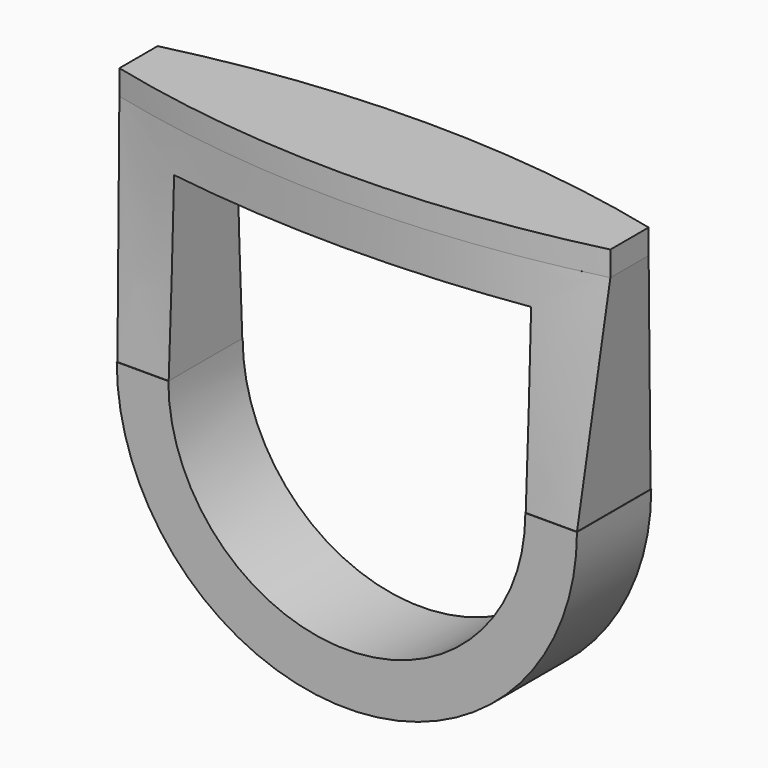
from build123d import *

# Parameters (mm, degrees)
F1_DEPTH      = 2.25
F1_DEPTH_BACK = 2.25
F3_START      = 10.65
F3_DEPTH      = 1.2
F4_W          = 22.2676340491
F4_H          = 4.4576479122
F6_DEPTH      = 25
F6_DEPTH_BACK = 25


with BuildPart() as f1:
    # F0 (on Front) → F1 (new body, two sides)
    with BuildSketch(Plane.XZ) as f1_sk:
        with BuildLine():
            Line((11.15, 0), (8.65, 0))
            ThreePointArc((8.65, 0), (0, -8.65), (-8.65, 0))
            Line((-8.65, 0), (-11.15, 0))
            ThreePointArc((-11.15, 0), (0, -11.15), (11.15, 0))
        make_face()
    extrude(amount=F1_DEPTH)
    extrude(f1_sk.sketch, amount=-F1_DEPTH_BACK)


with BuildPart() as f3:
    # F2 (on Top) → F3 (new body)
    with BuildSketch(Plane.XY.offset(F3_START)):
        with BuildLine():
            Line((-11.89556811, 1.1590829818), (-11.89556811, 0))
            Line((-11.89556811, 0), (-11.89556811, -1.1590829818))
            ThreePointArc((-11.89556811, -1.1590829818), (0, -2.6051300839), (11.89556811, -1.1590829818))
            Line((11.89556811, -1.1590829818), (11.89556811, 0))
            Line((11.89556811, 0), (11.89556811, 1.1590829818))
            ThreePointArc((11.89556811, 1.1590829818), (0, 2.6051300839), (-11.89556811, 1.1590829818))
        make_face()
    extrude(amount=F3_DEPTH)


with BuildPart() as f5:
    # F4 (on Top) → F5 section 0
    with BuildSketch(Plane.XY):
        Rectangle(F4_W, F4_H)
    # F3_face (on face) → F5 section 1
    with BuildSketch(Plane(origin=(0, 0, 10.65), x_dir=(1, 0, 0), z_dir=(0, 0, -1))):
        with BuildLine():
            Line((-11.89556811, 1.1590829818), (-11.89556811, -1.1590829818))
            ThreePointArc((-11.89556811, -1.1590829818), (0, -2.6051300839), (11.89556811, -1.1590829818))
            Line((11.89556811, -1.1590829818), (11.89556811, 1.1590829818))
            ThreePointArc((11.89556811, 1.1590829818), (0, 2.6051300839), (-11.89556811, 1.1590829818))
        make_face()
    loft()

    # F0 (on Front) → F6 (cut, two sides)
    with BuildSketch(Plane.XZ) as f6_sk:
        with BuildLine():
            Line((-8.65, 0), (8.65, 0))
            ThreePointArc((8.65, 0), (6.1164736573, 6.1164736573), (0, 8.65))
            ThreePointArc((0, 8.65), (-6.1164736573, 6.1164736573), (-8.65, 0))
        make_face()
        with BuildLine():
            ThreePointArc((0, 8.65), (6.1164736573, 6.1164736573), (8.65, 0))
            Line((8.65, 0), (8.65, 7.0356236397))
            ThreePointArc((8.65, 7.0356236397), (7.8842406102, 7.8842406102), (7.0356236397, 8.65))
            Line((7.0356236397, 8.65), (0, 8.65))
        make_face()
        with BuildLine():
            ThreePointArc((7.0356236397, 8.65), (7.8842406102, 7.8842406102), (8.65, 7.0356236397))
            Line((8.65, 7.0356236397), (8.65, 8.65))
            Line((8.65, 8.65), (7.0356236397, 8.65))
        make_face()
        with BuildLine():
            ThreePointArc((-8.65, 0), (-6.1164736573, 6.1164736573), (0, 8.65))
            Line((0, 8.65), (-7.0356236397, 8.65))
            ThreePointArc((-7.0356236397, 8.65), (-7.8842406102, 7.8842406102), (-8.65, 7.0356236397))
            Line((-8.65, 7.0356236397), (-8.65, 0))
        make_face()
        with BuildLine():
            ThreePointArc((-8.65, 7.0356236397), (-7.8842406102, 7.8842406102), (-7.0356236397, 8.65))
            Line((-7.0356236397, 8.65), (-8.65, 8.65))
            Line((-8.65, 8.65), (-8.65, 7.0356236397))
        make_face()
    extrude(amount=-F6_DEPTH, mode=Mode.SUBTRACT)
    extrude(f6_sk.sketch, amount=F6_DEPTH_BACK, mode=Mode.SUBTRACT)


solid = Compound([f1.part, f3.part, f5.part])
